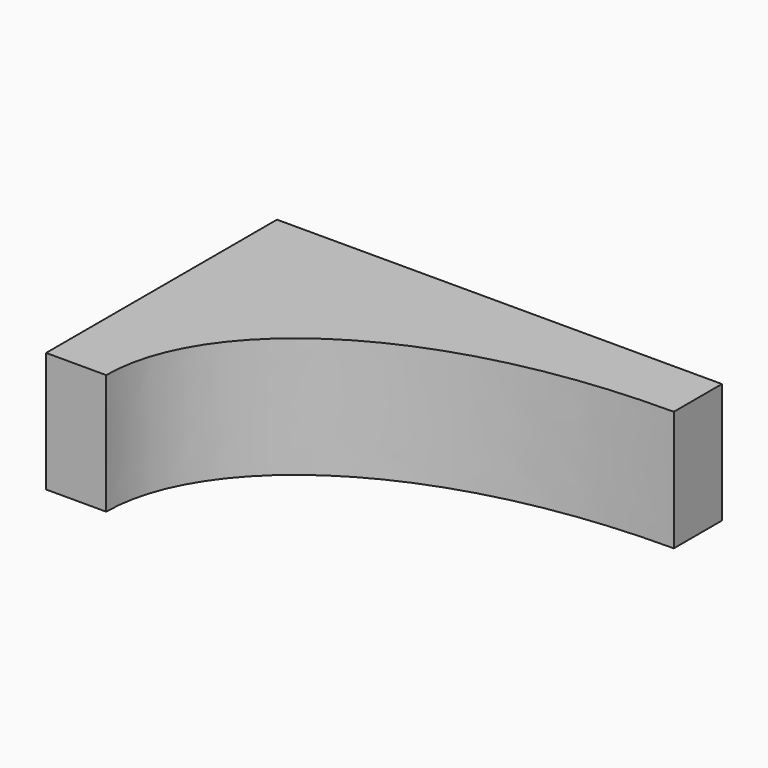
from build123d import *

# Parameters (mm, degrees)
F1_DEPTH = 4


with BuildPart() as f1:
    # F0 (on Top) → F1 (new body)
    with BuildSketch(Plane.XY):
        with BuildLine():
            Line((-14.8, 0), (-12.8, 0))
            add(Edge.make_bspline(
                [(-12.8, 0), (-12.8, 3.951921), (-8.073081, 7.6), (0, 7.6)],
                knots=[0, 0, 0, 0, 14.886235, 14.886235, 14.886235, 14.886235], degree=3))
            Line((0, 7.6), (0, 9.6))
            Line((0, 9.6), (-14.8, 9.6))
            Line((-14.8, 9.6), (-14.8, 0))
        make_face()
    extrude(amount=F1_DEPTH)


solid = f1.part
